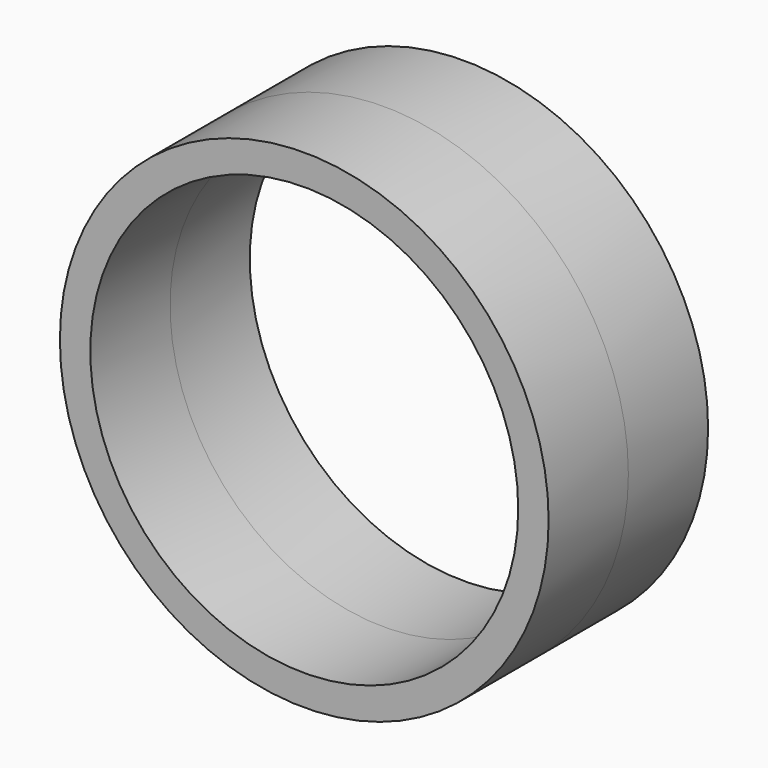
from build123d import *

# Parameters (mm, degrees)
F0_R     = 61.294747
F0_R_2   = 53.668329
F1_DEPTH = 25
F2_DEPTH = 25


with BuildPart() as f1:
    # F0 (on Front) → F1 (new body)
    with BuildSketch(Plane.XZ):
        Circle(F0_R)
        Circle(F0_R_2, mode=Mode.SUBTRACT)
    extrude(amount=F1_DEPTH)


with BuildPart() as f2:
    # F0 (on Front) → F2 (new body)
    with BuildSketch(Plane.XZ):
        Circle(F0_R)
        Circle(F0_R_2, mode=Mode.SUBTRACT)
    extrude(amount=-F2_DEPTH)


solid = Compound([f1.part, f2.part])
